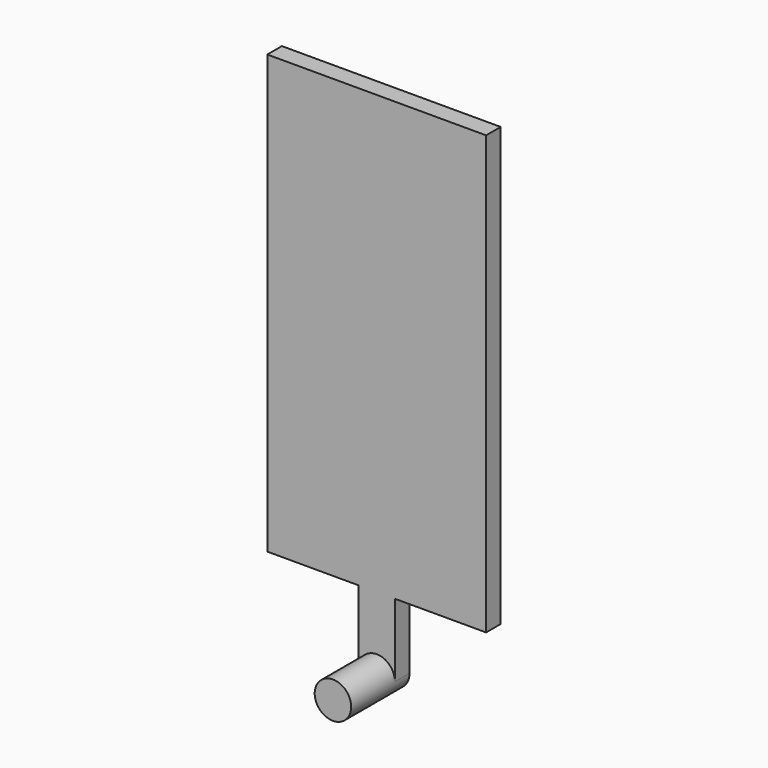
from build123d import *

# Parameters (mm, degrees)
F1_DEPTH = 6.35
F2_DEPTH = 25.4


with BuildPart() as f1:
    # F0 (on Front) → F1 (new body)
    with BuildSketch(Plane.XZ):
        Polygon((6.35, -76.2), (38.1, -76.2), (38.1, 76.2), (-38.1, 76.2), (-38.1, -76.2), (-6.35, -76.2), align=None)
        with BuildLine():
            Line((6.35, -101.6), (6.35, -76.2))
            Line((6.35, -76.2), (-6.35, -76.2))
            Line((-6.35, -76.2), (-6.35, -101.6))
            ThreePointArc((-6.35, -101.6), (0, -95.25), (6.35, -101.6))
        make_face()
    extrude(amount=F1_DEPTH)

    # F0 (on Front) → F2 (join)
    with BuildSketch(Plane.XZ):
        with BuildLine():
            ThreePointArc((-6.35, -101.6), (0, -107.95), (6.35, -101.6))
            ThreePointArc((6.35, -101.6), (0, -95.25), (-6.35, -101.6))
        make_face()
    extrude(amount=F2_DEPTH)


solid = f1.part
